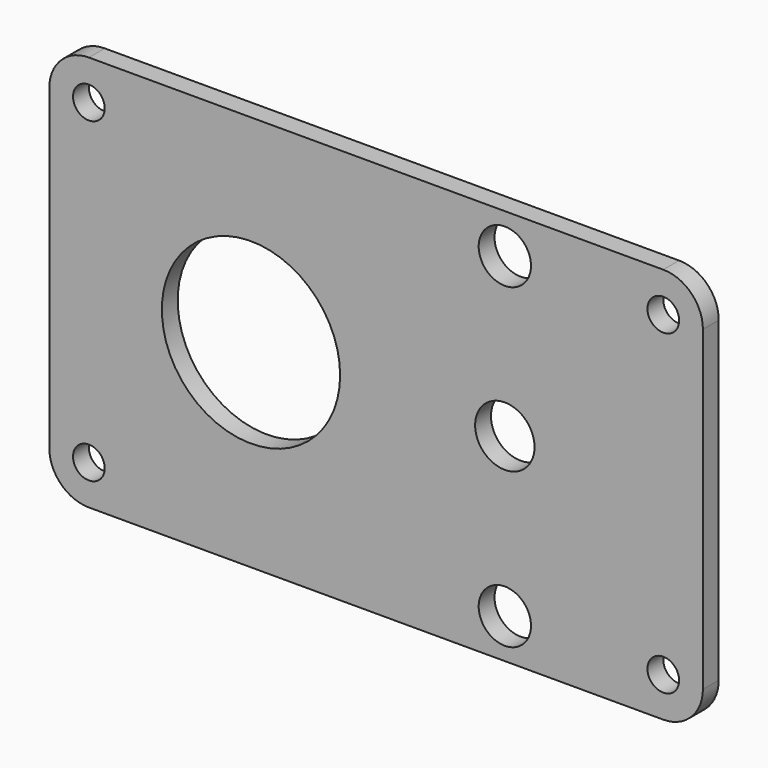
from build123d import *

# Parameters (mm, degrees)
F0_R     = 2.54
F0_R_2   = 4.191
F0_R_3   = 14.2875
F0_R_4   = 4.7625
F1_DEPTH = 3.175


with BuildPart() as f1:
    # F0 (on Front) → F1 (new body)
    with BuildSketch(Plane.XZ):
        with BuildLine():
            ThreePointArc((0, 6.35), (1.859872, 1.859872), (6.35, 0))
            Line((6.35, 0), (98.425, 0))
            ThreePointArc((98.425, 0), (102.915128, 1.859872), (104.775, 6.35))
            Line((104.775, 6.35), (104.775, 57.15))
            ThreePointArc((104.775, 57.15), (102.915128, 61.640128), (98.425, 63.5))
            Line((98.425, 63.5), (6.35, 63.5))
            ThreePointArc((6.35, 63.5), (1.859872, 61.640128), (0, 57.15))
            Line((0, 57.15), (0, 6.35))
        make_face()
        with Locations((6.35, 6.35)):
            Circle(F0_R, mode=Mode.SUBTRACT)
        with Locations((73.025, 6.35)):
            Circle(F0_R_2, mode=Mode.SUBTRACT)
        with Locations((98.425, 6.35)):
            Circle(F0_R, mode=Mode.SUBTRACT)
        with Locations((32.3342, 31.75)):
            Circle(F0_R_3, mode=Mode.SUBTRACT)
        with Locations((6.35, 57.15)):
            Circle(F0_R, mode=Mode.SUBTRACT)
        with Locations((73.025, 31.75)):
            Circle(F0_R_4, mode=Mode.SUBTRACT)
        with Locations((73.025, 57.15)):
            Circle(F0_R_2, mode=Mode.SUBTRACT)
        with Locations((98.425, 57.15)):
            Circle(F0_R, mode=Mode.SUBTRACT)
    extrude(amount=F1_DEPTH)


solid = f1.part
